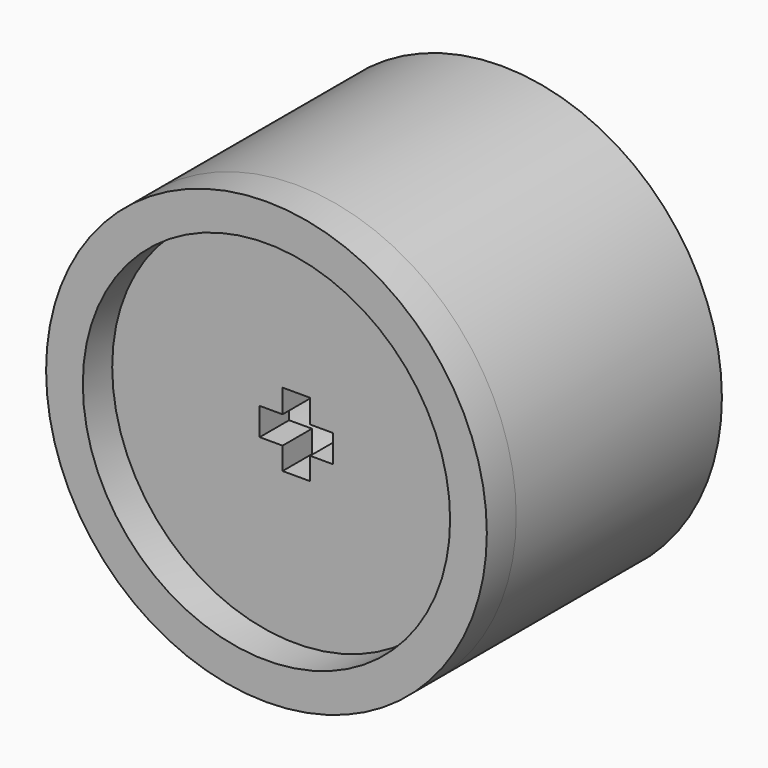
from build123d import *

# Parameters (mm, degrees)
F0_R        = 10
F1_DEPTH    = 2
F2_R        = 12
F2_R_2      = 10
F3_DEPTH    = 2
F3_FACE_R   = 12
F3_FACE_R_2 = 10
F4_DEPTH    = 14


with BuildPart() as f1:
    # F0 (on Front) → F1 (new body)
    with BuildSketch(Plane.XZ):
        Circle(F0_R)
        Polygon((-0.722205, 2.032), (0.027795, 2.032), (0.777795, 2.032), (0.777795, 0.75), (2.032042, 0.75), (2.032042, 0), (2.032042, -0.75), (0.777795, -0.75), (0.777795, -1.968), (0.027795, -1.968), (-0.722205, -1.968), (-0.722205, -0.75), (-1.967958, -0.75), (-1.967958, 0), (-1.967958, 0.75), (-0.722205, 0.75), align=None, mode=Mode.SUBTRACT)
    extrude(amount=F1_DEPTH)

    # F2 (on face) → F3 (join)
    with BuildSketch(Plane.XZ.offset(2)):
        Circle(F2_R)
        Circle(F2_R_2, mode=Mode.SUBTRACT)
    extrude(amount=F3_DEPTH)


with BuildPart() as f4:
    # F3_face (on face) → F4 (new body)
    with BuildSketch(Plane(origin=(0, -2, 0), x_dir=(1, 0, 0), z_dir=(0, 1, 0))):
        Circle(F3_FACE_R)
        Circle(F3_FACE_R_2, mode=Mode.SUBTRACT)
    extrude(amount=F4_DEPTH)


solid = Compound([f1.part, f4.part])
